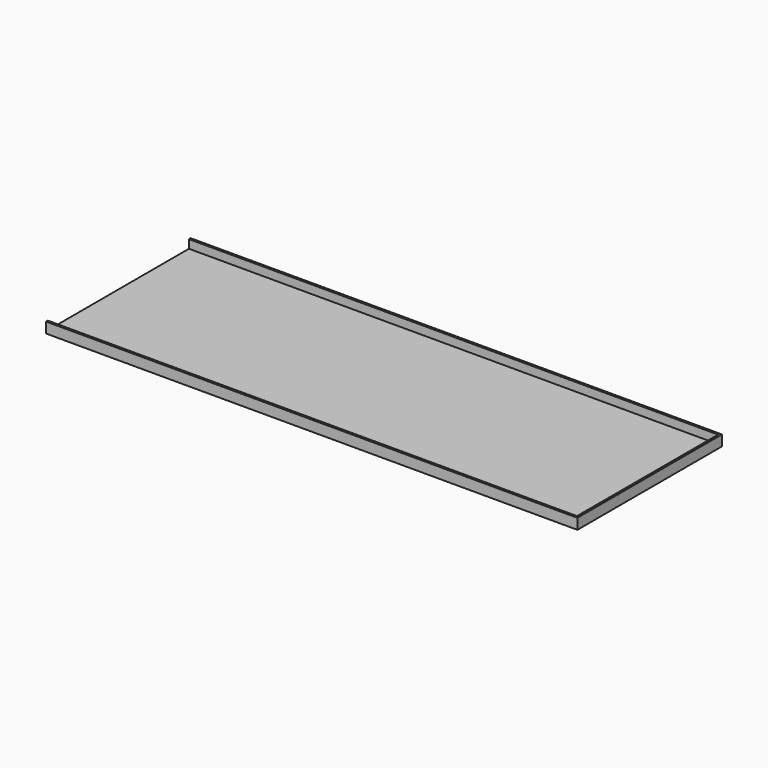
from build123d import *

# Parameters (mm, degrees)
F1_DEPTH = 750
F2_W     = 256
F2_H     = 15
F3_DEPTH = 3


with BuildPart() as f1:
    # F0 (on Right) → F1 (new body)
    with BuildSketch(Plane.YZ):
        Polygon((-128, 0), (128, 0), (128, 15), (125, 15), (125, 3), (-125, 3), (-125, 15), (-128, 15), align=None)
    extrude(amount=F1_DEPTH)

    # F2 (on face) → F3 (join)
    with BuildSketch(Plane.YZ.offset(750)):
        with Locations((0, 7.5)):
            Rectangle(F2_W, F2_H)
    extrude(amount=F3_DEPTH)


solid = f1.part
